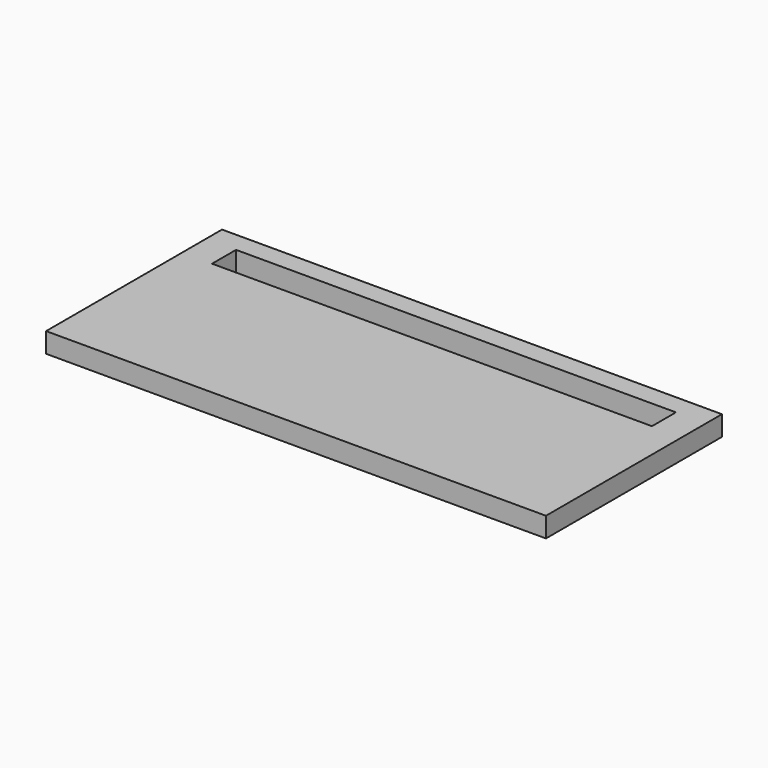
from build123d import *

# Parameters (mm, degrees)
BOX160_W     = 22
BOX160_H     = 1.5
BOX160_DEPTH = 2
BOX158_W     = 25
BOX158_H     = 11
BOX158_DEPTH = 1


with BuildPart() as longledhole014:
    # Box160 → Box160 (new body)
    with BuildSketch(Plane(origin=(1.5, 8.5, 0), x_dir=(1, 0, 0), z_dir=(0, 0, 1))):
        with Locations((11, 0.75)):
            Rectangle(BOX160_W, BOX160_H)
    extrude(amount=BOX160_DEPTH)


with BuildPart() as cut031:
    # Box158 → Box158 (new body)
    with BuildSketch(Plane.XY):
        with Locations((12.5, 5.5)):
            Rectangle(BOX158_W, BOX158_H)
    extrude(amount=BOX158_DEPTH)

    # Cut031: cut LongLedHole014
    add(longledhole014.part, mode=Mode.SUBTRACT)


solid = cut031.part
